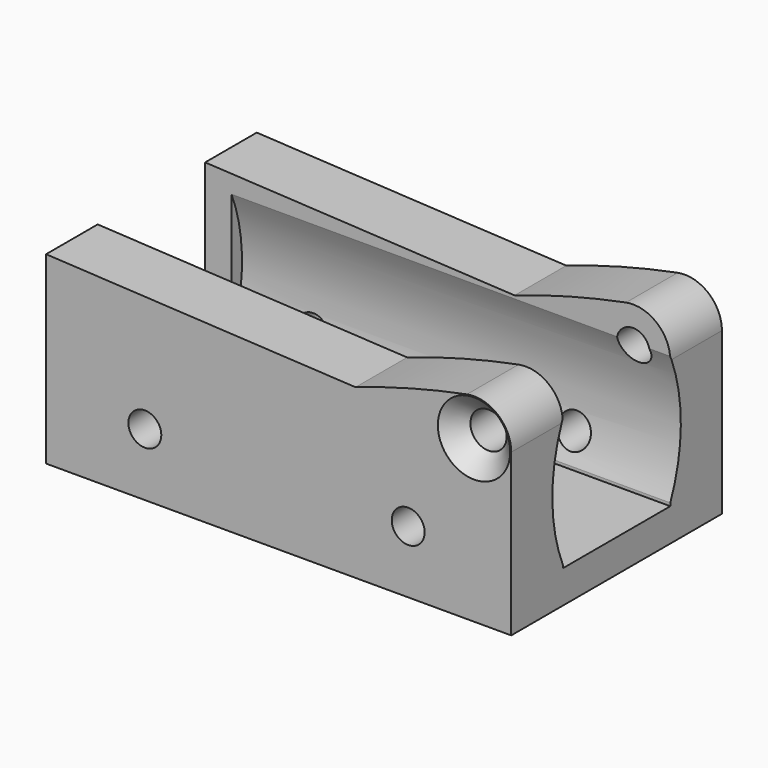
from build123d import *

# Parameters (mm, degrees)
PAD040_DEPTH         = 20
SKETCH138_W          = 20.4
SKETCH138_H          = 70
POCKET051_DEPTH      = 65.001
POCKET051_DEPTH_BACK = 5.651
SKETCH135_R          = 2.5
POCKET049_DEPTH      = 40.001
HOLE028_D            = 5.5
HOLE028_DEPTH        = 20
HOLE028_CSINK_D      = 11
HOLE028_CSINK_ANGLE  = 90
HOLE028_TIPS_R       = 2.75
POCKET050_DEPTH      = 66.651
SKETCH140_R          = 2.5
POCKET054_DEPTH      = 20.001
POCKET054_DEPTH_BACK = 20.001


with BuildPart() as part:
    # Sketch134 → Pad040 (new body, symmetric)
    with BuildSketch(Plane.XZ):
        with BuildLine():
            Line((-18, 1), (-65, 3.5))
            Line((-65, 3.5), (-65, -24.5))
            Line((-65, -24.5), (5.65, -24.5))
            Line((5.65, -24.5), (5.65, 0))
            ThreePointArc((5.65, 0), (3.593093, 4.360296), (-1.079976, 5.545823))
            ThreePointArc((-1.079976, 5.545823), (-9.619729, 3.569716), (-18, 1))
        make_face()
    extrude(amount=PAD040_DEPTH, both=True)

    # Sketch138 → Pocket051 (cut, two sides)
    with BuildSketch(Plane.YZ) as pocket051_sk:
        with Locations((0, 15.5)):
            Rectangle(SKETCH138_W, SKETCH138_H)
    extrude(amount=-POCKET051_DEPTH, mode=Mode.SUBTRACT)
    extrude(pocket051_sk.sketch, amount=POCKET051_DEPTH_BACK, mode=Mode.SUBTRACT)

    # Sketch135 → Pocket049 (cut, through all)
    with BuildSketch(Plane.XZ.offset(20)):
        Circle(SKETCH135_R)
    extrude(amount=-POCKET049_DEPTH, mode=Mode.SUBTRACT)

    # Hole028
    with Locations(Plane.XZ.offset(20)):
        with Locations((0, 0)):
            CounterSinkHole(HOLE028_D / 2, HOLE028_CSINK_D / 2, depth=HOLE028_DEPTH, counter_sink_angle=HOLE028_CSINK_ANGLE)

    # Hole028 tips → Hole028 tip 1 section 0
    with BuildSketch(Plane.XZ, mode=Mode.PRIVATE) as hole028_tip_1_s0:
        Circle(HOLE028_TIPS_R)
    loft([hole028_tip_1_s0.sketch, Vertex(0, 1.652367, 0)], mode=Mode.SUBTRACT)

    # Sketch137 → Pocket050 (cut, through all)
    with BuildSketch(Plane.YZ.offset(-61)):
        with BuildLine():
            ThreePointArc((-10, 1), (-12.197862, -9.25), (-10, -19.5))
            Line((10, -19.5), (-10, -19.5))
            ThreePointArc((10, -19.5), (12.197862, -9.25), (10, 1))
            Line((-10, 1), (10, 1))
        make_face()
    extrude(amount=POCKET050_DEPTH, mode=Mode.SUBTRACT)

    # Sketch140 → Pocket054 (cut, two sides)
    with BuildSketch(Plane.XZ) as pocket054_sk:
        with Locations((-10, -15)):
            Circle(SKETCH140_R)
        with Locations((-50, -15)):
            Circle(SKETCH140_R)
    extrude(amount=-POCKET054_DEPTH, mode=Mode.SUBTRACT)
    extrude(pocket054_sk.sketch, amount=POCKET054_DEPTH_BACK, mode=Mode.SUBTRACT)


solid = part.part
